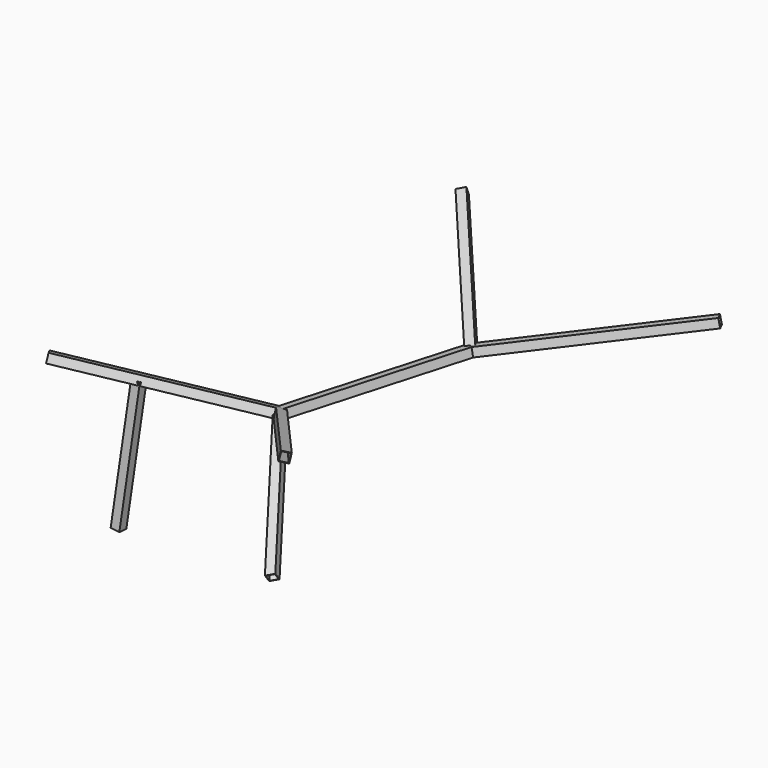
from build123d import *

# Parameters (mm, degrees)
F6_W    = 40
F6_H    = 40
F6_W_2  = 36
F6_H_2  = 36
F5_W    = 40
F5_H    = 40
F5_W_2  = 36
F5_H_2  = 36
F13_W   = 40
F13_H   = 40
F13_W_2 = 36
F13_H_2 = 36
F20_W   = 40
F20_H   = 40
F20_W_2 = 36
F20_H_2 = 36
F25_W   = 40
F25_H   = 40
F25_W_2 = 36
F25_H_2 = 36


with BuildPart() as f11:
    # F11: sweep along a path in F2, F7, F10
    with BuildLine(Plane(origin=(0, 0, 0), x_dir=(1, 0, 0), z_dir=(0, -0.3583679495, 0.9335804265))) as f11_path:
        Line((0, 0), (764.0288873983, 496.1661608987))
    with BuildLine(Plane.XY) as f11_path_2:
        Line((0, 0), (-229, -800))
    with BuildLine(Plane(origin=(0, -102.742069809, -267.6522425435), x_dir=(1, 0, 0), z_dir=(0, -0.3583679495, -0.9335804265))) as f11_path_3:
        Line((-950.6889298291, 1197.8256350602), (-229, 746.8643411978))
    # F6 (on line) → F11 (sweep)
    with BuildSketch(Plane(origin=(764.0288873983, 463.2110161053, 177.810049715), x_dir=(-0.4952299095, 0.8610830461, -0.1152533056), z_dir=(0.8386705679, 0.5084643426, 0.1951811742))):
        Rectangle(F6_W, F6_H)
        Rectangle(F6_W_2, F6_H_2, mode=Mode.SUBTRACT)
    sweep(path=f11_path.line + f11_path_2.line + f11_path_3.line, transition=Transition.RIGHT)

    # F14: sweep along a path in F2
    with BuildLine(Plane(origin=(0, 0, 0), x_dir=(1, 0, 0), z_dir=(0, -0.3583679495, 0.9335804265))) as f14_path:
        Line((0, 0), (-514.7840798788, 635.7053964718))
    # F5 (on line) → F14 (sweep)
    with BuildSketch(Plane(origin=(-514.7840798788, 593.4821151647, 227.8164394485), x_dir=(-0.7771459615, -0.5875211991, -0.2255282581), z_dir=(-0.629320391, 0.7255282581, 0.2785042047))):
        Rectangle(F5_W, F5_H)
        Rectangle(F5_W_2, F5_H_2, mode=Mode.SUBTRACT)
    sweep(path=f14_path.line)

    # F15: sweep along a path in F10
    with BuildLine(Plane(origin=(0, -102.742069809, -267.6522425435), x_dir=(1, 0, 0), z_dir=(0, -0.3583679495, -0.9335804265))) as f15_path:
        Line((-229, 746.8643411978), (271.5327794398, 1387.51708388))
    # F13 (on line) → F15 (sweep)
    with BuildSketch(Plane(origin=(776.072475672, -927.3510842252, 355.9767290852), x_dir=(0.7880107536, 0.5747695027, -0.2206333405), z_dir=(0.6156614753, -0.7356714154, 0.282397798))):
        with Locations((-640.2700647459, -286.6943596362)):
            Rectangle(F13_W, F13_H)
        with Locations((-640.2700647459, -286.6943596362)):
            Rectangle(F13_W_2, F13_H_2, mode=Mode.SUBTRACT)
    sweep(path=f15_path.line)

    # F21: sweep along a path in F18
    with BuildLine(Plane(origin=(0, -289.7450576732, 384.5046783753), x_dir=(1, 0, 0), z_dir=(0, 0.6018150232, -0.79863551))) as f21_path:
        Line((-229, 638.9084080378), (112.5, 1230.4037588226))
    # F20 (on line) → F21 (sweep)
    with BuildSketch(Plane(origin=(560.9054560261, -775.8877736222, -584.6733742383), x_dir=(0.8660254038, 0.399317755, 0.3009075116), z_dir=(0.5, -0.6916386401, -0.5211870984))):
        with Locations((-517.7740214856, 481.4520185216)):
            Rectangle(F20_W, F20_H)
        with Locations((-517.7740214856, 481.4520185216)):
            Rectangle(F20_W_2, F20_H_2, mode=Mode.SUBTRACT)
    sweep(path=f21_path.line)

    # F26: sweep along a path in F23
    with BuildLine(Plane(origin=(290.0513412295, -497.2032011274, 0), x_dir=(-0.8637666966, -0.5038919466, 0), z_dir=(-0.5038919466, 0.8637666966, 0))) as f26_path:
        Line((1108.6913477208, 98.2169269961), (1182.3538043363, -506.3116848044))
    # F25 (on line) → F26 (sweep)
    with BuildSketch(Plane(origin=(-67.4518628313, -39.3491096563, -640.8673626896), x_dir=(0.9945271851, -0.006402875, -0.1042817402), z_dir=(-0.1044781228, -0.0609489633, -0.992657819))):
        with Locations((-667.4273420568, 1059.8983464665)):
            Rectangle(F25_W, F25_H)
        with Locations((-667.4273420568, 1059.8983464665)):
            Rectangle(F25_W_2, F25_H_2, mode=Mode.SUBTRACT)
    sweep(path=f26_path.line)


solid = f11.part
